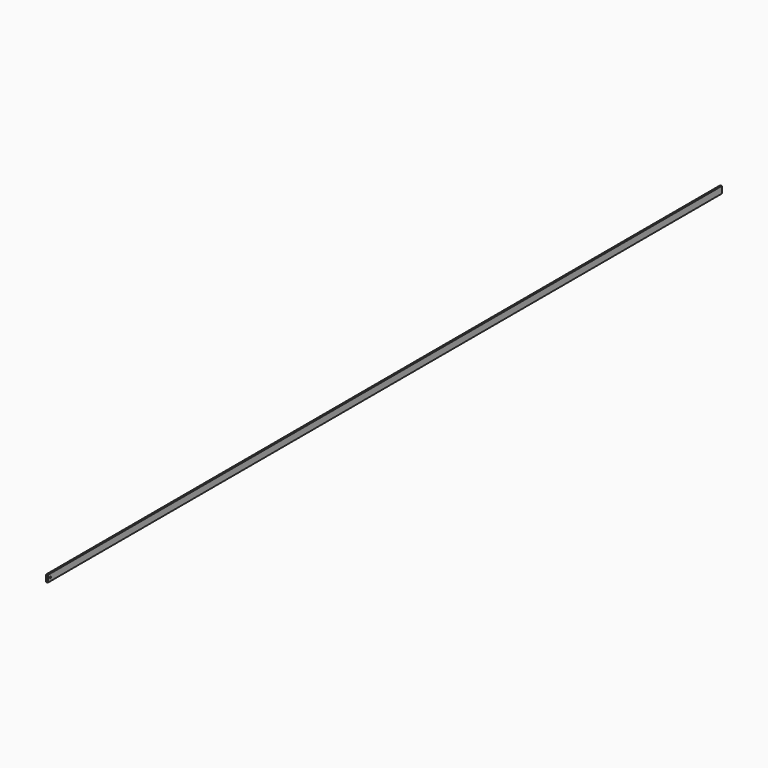
from build123d import *

# Parameters (mm, degrees)
F0_W     = 12750
F0_H     = 101.6
F1_DEPTH = 25.4
F3_W     = 12674.6
F3_H     = 101.6
F3_R     = 12.7
F4_DEPTH = 25.4
F5_DEPTH = 25.4


with BuildPart() as f1:
    # F0 (on Front) → F1 (new body)
    with BuildSketch(Plane.XZ):
        with Locations((6166.7917860505, -1.2713777833)):
            Rectangle(F0_W, F0_H)
    extrude(amount=F1_DEPTH)


with BuildPart() as f4:
    # F3 (on Right) → F4 (new body)
    with BuildSketch(Plane.YZ):
        with Locations((-119.7538606495, -2808.7475822979)):
            Rectangle(F3_W, F3_H)
        with Locations((-6406.2538606495, -2808.7475822979)):
            Circle(F3_R, mode=Mode.SUBTRACT)
    extrude(amount=F4_DEPTH)

    # F3 (on Right) → F5 (join)
    with BuildSketch(Plane.YZ):
        with Locations((-119.7538606495, -2808.7475822979)):
            Rectangle(F3_W, F3_H)
        with Locations((-6406.2538606495, -2808.7475822979)):
            Circle(F3_R, mode=Mode.SUBTRACT)
    extrude(amount=F5_DEPTH)


solid = f4.part
